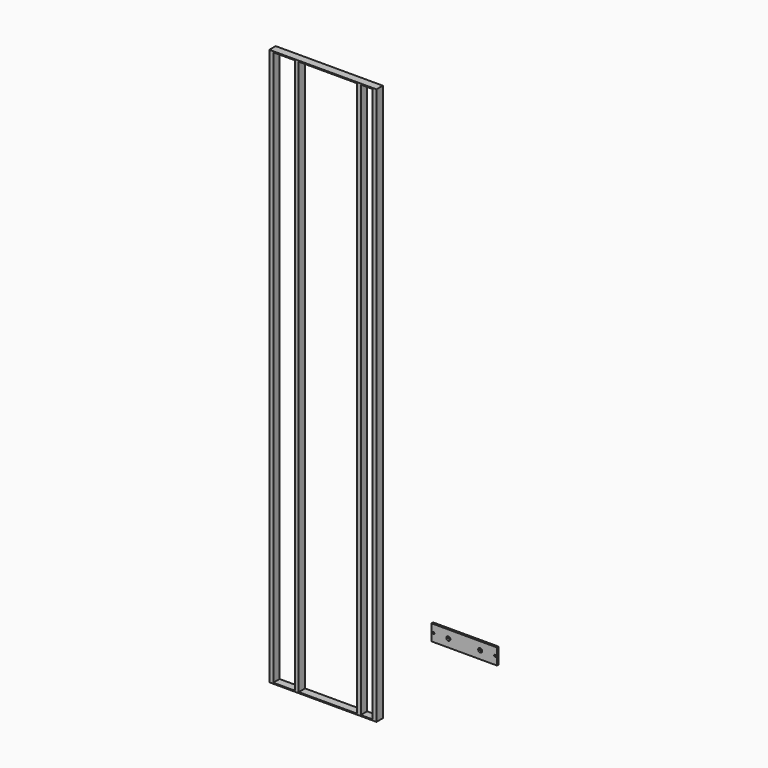
from build123d import *

# Parameters (mm, degrees)
F0_W     = 6.35
F0_H     = 885.825
F0_W_2   = 5.842
F0_H_2   = 1.5875
F0_W_3   = 18.669
F0_W_4   = 92.71
F0_W_5   = 34.798
F1_DEPTH = 12.7
F2_W     = 104.902
F2_H     = 25.4
F2_R     = 1.5875
F2_R_2   = 3.175
F3_DEPTH = 3.175


with BuildPart() as f1:
    # F0 (on Front) → F1 (new body)
    with BuildSketch(Plane.XZ):
        with Locations((-167.894, 444.5)):
            Rectangle(F0_W, F0_H)
        with Locations((-127, 444.5)):
            Rectangle(F0_W_2, F0_H)
        with Locations((-28.194, 444.5)):
            Rectangle(F0_W, F0_H)
        with Locations((-3.175, 444.5)):
            Rectangle(F0_W, F0_H)
        with Locations((-3.175, 888.20625)):
            Rectangle(F0_W, F0_H_2)
        with Locations((-15.6845, 888.20625)):
            Rectangle(F0_W_3, F0_H_2)
        with Locations((-77.724, 888.20625)):
            Rectangle(F0_W_4, F0_H_2)
        with Locations((-127, 888.20625)):
            Rectangle(F0_W_2, F0_H_2)
        with Locations((-147.32, 888.20625)):
            Rectangle(F0_W_5, F0_H_2)
        with Locations((-167.894, 888.20625)):
            Rectangle(F0_W, F0_H_2)
        with Locations((-28.194, 888.20625)):
            Rectangle(F0_W, F0_H_2)
        with Locations((-167.894, 0.79375)):
            Rectangle(F0_W, F0_H_2)
        with Locations((-147.32, 0.79375)):
            Rectangle(F0_W_5, F0_H_2)
        with Locations((-127, 0.79375)):
            Rectangle(F0_W_2, F0_H_2)
        with Locations((-77.724, 0.79375)):
            Rectangle(F0_W_4, F0_H_2)
        with Locations((-15.6845, 0.79375)):
            Rectangle(F0_W_3, F0_H_2)
        with Locations((-28.194, 0.79375)):
            Rectangle(F0_W, F0_H_2)
        with Locations((-3.175, 0.79375)):
            Rectangle(F0_W, F0_H_2)
    extrude(amount=F1_DEPTH)


with BuildPart() as f3:
    # F2 (on Front) → F3 (new body)
    with BuildSketch(Plane.XZ):
        with Locations((132.5279174538, 148.1185257435)):
            Rectangle(F2_W, F2_H)
        with Locations((83.2519174538, 148.1185257435)):
            Circle(F2_R, mode=Mode.SUBTRACT)
        with Locations((107.1279174538, 148.1185257435)):
            Circle(F2_R_2, mode=Mode.SUBTRACT)
        with Locations((157.9279174538, 148.1185257435)):
            Circle(F2_R_2, mode=Mode.SUBTRACT)
        with Locations((181.8039174538, 148.1185257435)):
            Circle(F2_R, mode=Mode.SUBTRACT)
    extrude(amount=F3_DEPTH)


solid = Compound([f1.part, f3.part])
